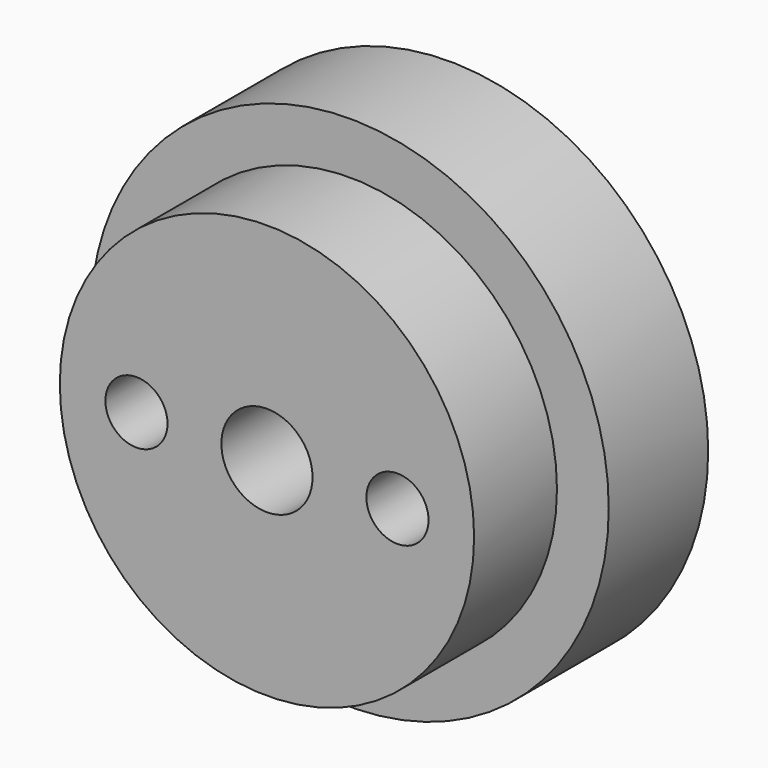
from build123d import *

# Parameters (mm, degrees)
F0_R     = 12.5
F0_R_2   = 10
F1_DEPTH = 6
F0_R_3   = 2.2
F2_DEPTH = 11
F3_R     = 1.5
F4_DEPTH = 11
F5_DEPTH = 3


with BuildPart() as f1:
    # F0 (on Front) → F1 (new body)
    with BuildSketch(Plane.XZ):
        Circle(F0_R)
        Circle(F0_R_2, mode=Mode.SUBTRACT)
    extrude(amount=F1_DEPTH)

    # F0 (on Front) → F2 (join)
    with BuildSketch(Plane.XZ):
        Circle(F0_R_2)
        Circle(F0_R_3, mode=Mode.SUBTRACT)
    extrude(amount=F2_DEPTH)

    # F3 (on Front) → F4 (cut)
    with BuildSketch(Plane.XZ):
        with Locations((6.3, 0)):
            Circle(F3_R)
        with Locations((-6.3, 0)):
            Circle(F3_R)
    extrude(amount=F4_DEPTH, mode=Mode.SUBTRACT)

    # F3 (on Front) → F5 (cut)
    with BuildSketch(Plane.XZ):
        Polygon((7.970619, 2.845979), (4.670619, 2.869788), (3, 0.023809), (4.629381, -2.845979), (7.929381, -2.869788), (9.6, -0.023809), align=None)
        with Locations((6.3, 0)):
            Circle(F3_R, mode=Mode.SUBTRACT)
        Polygon((-9.6, -0.023809), (-7.929381, -2.869788), (-4.629381, -2.845979), (-3, 0.023809), (-4.670619, 2.869788), (-7.970619, 2.845979), align=None)
        with Locations((-6.3, 0)):
            Circle(F3_R, mode=Mode.SUBTRACT)
    extrude(amount=F5_DEPTH, mode=Mode.SUBTRACT)


solid = f1.part
